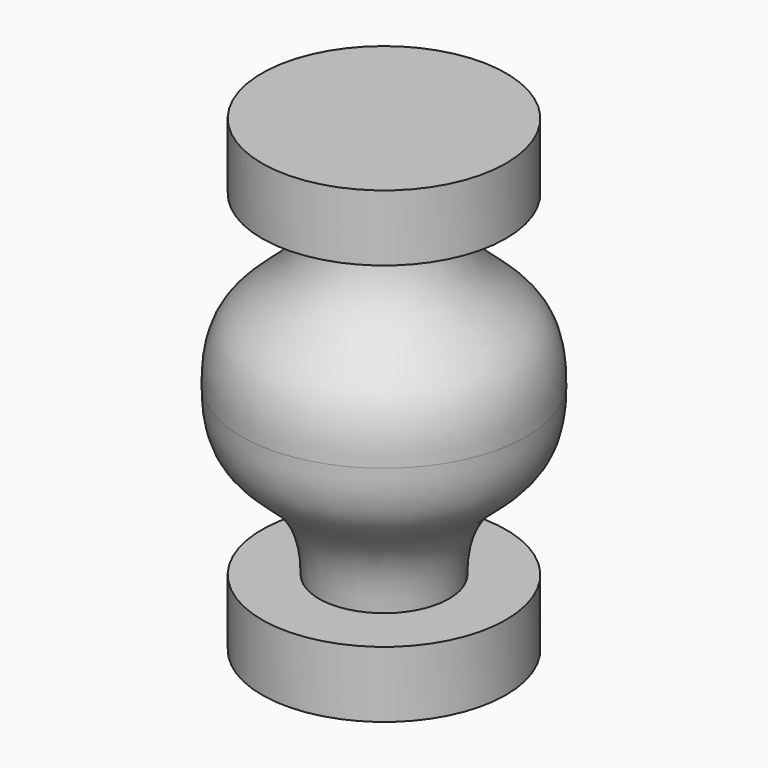
from build123d import *


with BuildPart() as f1:
    # F0 (on Front) → F1 (revolve)
    with BuildSketch(Plane.XZ):
        with BuildLine():
            Line((6, 0), (0, 0))
            Line((0, 0), (0, -23))
            Line((0, -23), (6, -23))
            Line((6, -23), (6, -19.75))
            Line((6, -19.75), (3.1995258944, -19.75))
            add(Edge.make_bspline(
                [(3.1995258944, -19.75), (3.1995258944, -17.0210715578), (5.588722155, -15.3215501769), (7.0276521617, -13.7139101128), (7, -11.5)],
                knots=[0, 0, 0, 0, 0.5265687159, 1, 1, 1, 1], degree=3))
            add(Edge.make_bspline(
                [(3.1995258944, -3.25), (3.1995258944, -5.9789284422), (5.588722155, -7.6784498231), (7.0276521617, -9.2860898872), (7, -11.5)],
                knots=[0, 0, 0, 0, 0.5265687159, 1, 1, 1, 1], degree=3))
            Line((3.1995258944, -3.25), (6, -3.25))
            Line((6, -3.25), (6, 0))
        make_face()
    revolve(axis=Axis((0, 0, -10.4959332384), (0, 0, -1)))


solid = f1.part
